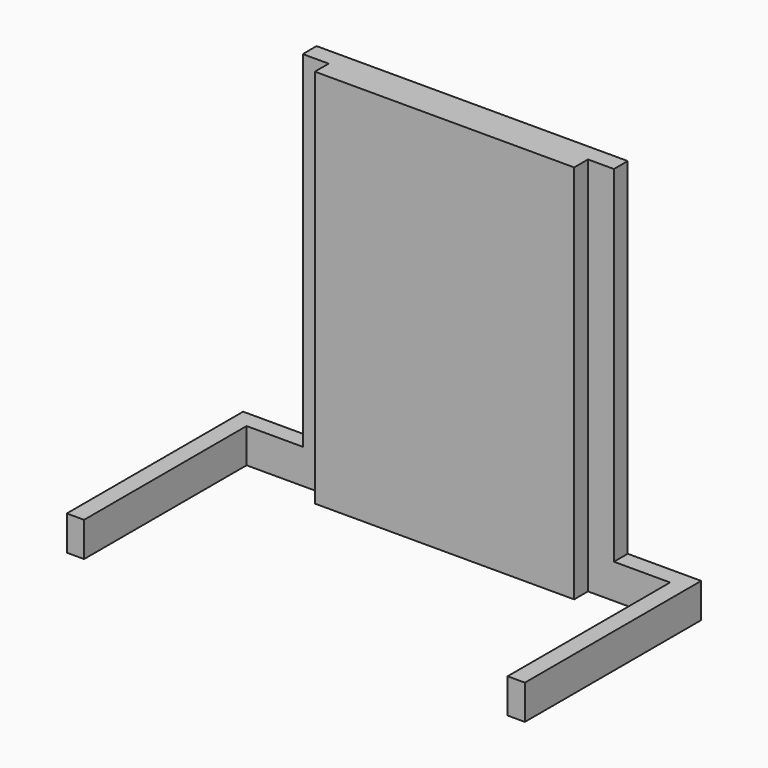
from build123d import *

# Parameters (mm, degrees)
F1_DEPTH = 25.4
F2_W     = 190.5
F2_H     = 12.7
F2_W_2   = 19.05
F3_DEPTH = 254
F4_DEPTH = 25.4


with BuildPart() as f1:
    # F0 (on Top) → F1 (new body)
    with BuildSketch(Plane.XY):
        Polygon((170.6390685204, 0), (-165.9109314796, 0), (-165.9109314796, -161.925), (-153.2109314796, -161.925), (-153.2109314796, -25.4), (157.9390685204, -25.4), (157.9390685204, -161.925), (170.6390685204, -161.925), align=None)
    extrude(amount=F1_DEPTH)

    # F2 (on face) → F3 (join)
    with BuildSketch(Plane.XY.offset(25.4)):
        with Locations((2.3640685204, -19.05)):
            Rectangle(F2_W, F2_H)
        with Locations((2.3640685204, -6.35)):
            Rectangle(F2_W, F2_H)
        with Locations((-102.4109314796, -6.35)):
            Rectangle(F2_W_2, F2_H)
        with Locations((107.1390685204, -6.35)):
            Rectangle(F2_W_2, F2_H)
    extrude(amount=F3_DEPTH)

    # F2 (on face) → F4 (cut)
    with BuildSketch(Plane.XY.offset(25.4)):
        Polygon((116.6640685204, -12.7), (97.6140685204, -12.7), (97.6140685204, -25.4), (157.9390685204, -25.4), (157.9390685204, -12.7), align=None)
        Polygon((-92.8859314796, -25.4), (-92.8859314796, -12.7), (-111.9359314796, -12.7), (-153.2109314796, -12.7), (-153.2109314796, -25.4), align=None)
    extrude(amount=-F4_DEPTH, mode=Mode.SUBTRACT)


solid = f1.part
